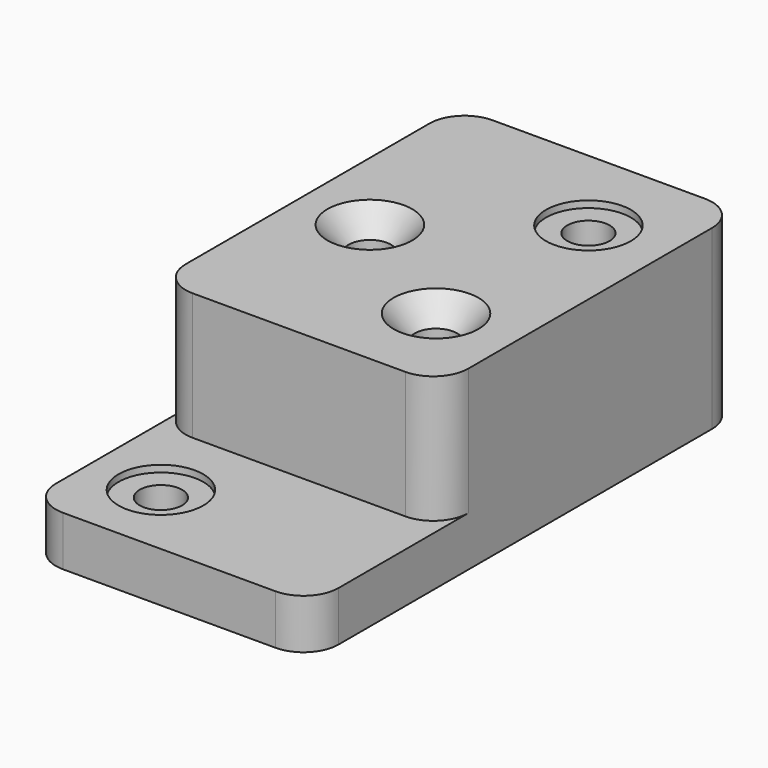
from build123d import *

# Parameters (mm, degrees)
F1_DEPTH             = 79.502
F2_DEPTH             = 22.352
F5_D                 = 19.05
F5_CBORE_D           = 38.1
F5_CBORE_DEPTH       = 3.048
F5_ON_F3_D           = 19.05
F5_ON_F3_CBORE_D     = 38.1
F5_ON_F3_CBORE_DEPTH = 3.048
F6_D                 = 19.05
F6_CSINK_D           = 38.1
F6_CSINK_ANGLE       = 82


with BuildPart() as f1:
    # F0 (on Top) → F1 (new body)
    with BuildSketch(Plane.XY):
        with BuildLine():
            ThreePointArc((-63.5, 15.748), (-58.8875175901, 4.6124824099), (-47.752, 0))
            Line((-47.752, 0), (47.752, 0))
            ThreePointArc((47.752, 0), (58.8875175901, 4.6124824099), (63.5, 15.748))
            Line((63.5, 15.748), (63.5, 152.654))
            ThreePointArc((63.5, 152.654), (58.8875175901, 163.7895175901), (47.752, 168.402))
            Line((47.752, 168.402), (-47.752, 168.402))
            ThreePointArc((-47.752, 168.402), (-58.8875175901, 163.7895175901), (-63.5, 152.654))
            Line((-63.5, 152.654), (-63.5, 15.748))
        make_face()
    extrude(amount=F1_DEPTH)

    # F0 (on Top) → F2 (join)
    with BuildSketch(Plane.XY):
        with BuildLine():
            Line((47.752, 0), (-47.752, 0))
            ThreePointArc((-47.752, 0), (-58.8875175901, 4.6124824099), (-63.5, 15.748))
            Line((-63.5, 15.748), (-63.5, 0))
            Line((-63.5, 0), (-63.5, -57.15))
            ThreePointArc((-63.5, -57.15), (-58.8875175901, -68.2855175901), (-47.752, -72.898))
            Line((-47.752, -72.898), (47.752, -72.898))
            ThreePointArc((47.752, -72.898), (58.8875175901, -68.2855175901), (63.5, -57.15))
            Line((63.5, -57.15), (63.5, 0))
            Line((63.5, 0), (63.5, 15.748))
            ThreePointArc((63.5, 15.748), (58.8875175901, 4.6124824099), (47.752, 0))
        make_face()
    extrude(amount=F2_DEPTH)

    # F5 (through all)
    with Locations(Plane.XY.offset(79.502)):
        with Locations((28.448, 127)):
            CounterBoreHole(F5_D / 2, F5_CBORE_D / 2, F5_CBORE_DEPTH)

    # F5 on F3 (through all)
    with Locations(Plane.XY.offset(22.352)):
        with Locations((-31.75, -37.846)):
            CounterBoreHole(F5_ON_F3_D / 2, F5_ON_F3_CBORE_D / 2, F5_ON_F3_CBORE_DEPTH)

    # F6 (through all)
    with Locations(Plane.XY.offset(79.502)):
        with Locations((-31.75, 79.502), (28.448, 41.402)):
            CounterSinkHole(F6_D / 2, F6_CSINK_D / 2, counter_sink_angle=F6_CSINK_ANGLE)


solid = f1.part
